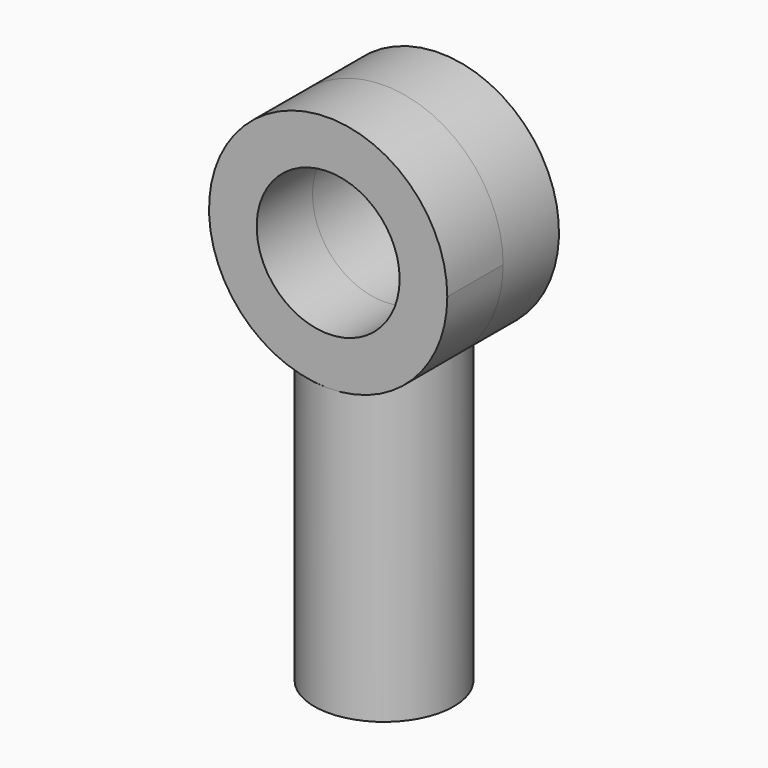
from build123d import *

# Parameters (mm, degrees)
F0_R      = 3.7211
F1_DEPTH  = 15.24
F3_W      = 11.0588753596
F3_H      = 5.0897249021
F4_DEPTH  = 25.4
F5_R      = 6.35
F5_R_2    = 3.81
F6_DEPTH  = 3.7211
F7_W      = 11.0588753596
F7_H      = 5.0897249021
F8_DEPTH  = 25.4
F9_R      = 6.35
F9_R_2    = 3.81
F10_DEPTH = 3.7211
F11_R     = 3.7211
F12_DEPTH = 1.27


with BuildPart() as f1:
    # F0 (on Top) → F1 (new body)
    with BuildSketch(Plane.XY):
        Circle(F0_R)
    extrude(amount=F1_DEPTH)

    # F3 (on face) → F4 (join)
    with BuildSketch(Plane.XY.offset(15.24)):
        with Locations((5.5294376798, 2.544862451)):
            Rectangle(F3_W, F3_H)
    extrude(amount=F4_DEPTH)

    # F7 (on face) → F8 (cut)
    with BuildSketch(Plane.XY.offset(40.64)):
        with Locations((5.5294376798, 2.544862451)):
            Rectangle(F7_W, F7_H)
    extrude(amount=-F8_DEPTH, mode=Mode.SUBTRACT)



with BuildPart() as f6:
    # F5 (on face) → F6 (new body)
    with BuildSketch(Plane.XZ):
        with Locations((0, 21.59)):
            Circle(F5_R)
        with Locations((0, 21.59)):
            Circle(F5_R_2, mode=Mode.SUBTRACT)
    extrude(amount=F6_DEPTH)


with BuildPart() as f10:
    # F9 (on face) → F10 (new body)
    with BuildSketch(Plane(origin=(0, 0, 0), x_dir=(-1, 0, 0), z_dir=(0, 1, 0))):
        with Locations((0, 21.59)):
            Circle(F9_R)
        with Locations((0, 21.59)):
            Circle(F9_R_2, mode=Mode.SUBTRACT)
    extrude(amount=F10_DEPTH)


with BuildPart() as f1_1:
    add(f1.part)

    add(f6.part)  # F12 merges F6

    add(f10.part)  # F12 merges F10
    # F11 (on face) → F12 (join)
    with BuildSketch(Plane.XY.offset(15.24)):
        Circle(F11_R)
    extrude(amount=F12_DEPTH)


solid = f1_1.part
